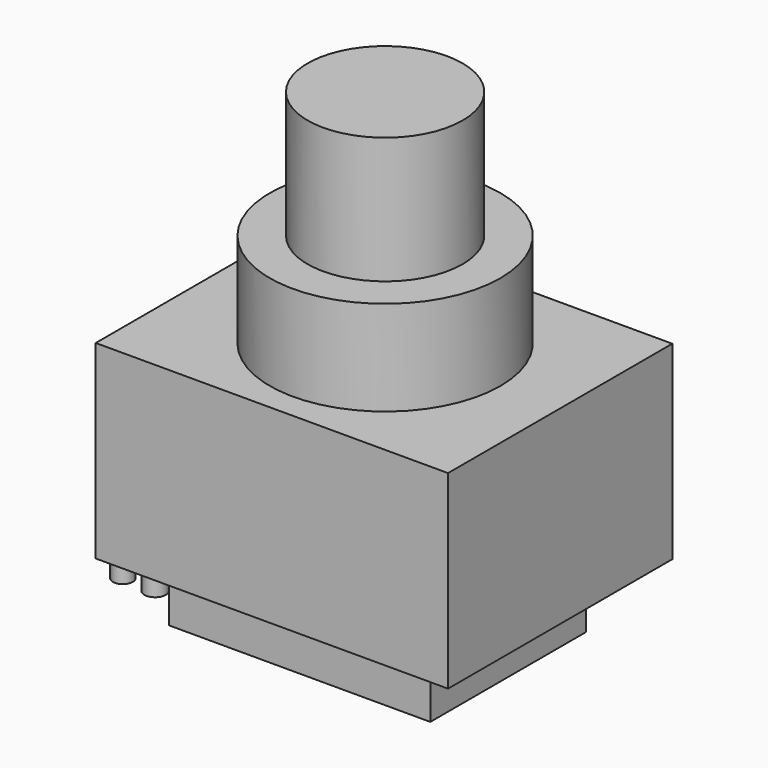
from build123d import *

# Parameters (mm, degrees)
F0_R      = 31.110515
F1_DEPTH  = 50.8
F2_R      = 46.31038
F3_DEPTH  = 38.1
F4_W      = 141.458466
F4_H      = 112.541542
F5_DEPTH  = 76.2
F6_R      = 3.985075
F7_DEPTH  = 7.62
F8_R      = 4.316187
F9_DEPTH  = 7.62
F10_W     = 104.921539
F10_H     = 78.153845
F11_DEPTH = 25.4


with BuildPart() as f1:
    # F0 (on Top) → F1 (new body)
    with BuildSketch(Plane.XY):
        Circle(F0_R)
    extrude(amount=F1_DEPTH)


with BuildPart() as f3:
    # F2 (on face) → F3 (new body)
    with BuildSketch(Plane(origin=(0, 0, 0), x_dir=(1, 0, 0), z_dir=(0, 0, -1))):
        Circle(F2_R)
    extrude(amount=F3_DEPTH)


with BuildPart() as f5:
    # F4 (on face) → F5 (new body)
    with BuildSketch(Plane(origin=(0, 0, -38.1), x_dir=(1, 0, 0), z_dir=(0, 0, -1))):
        with Locations((-0.293076, 0.195384)):
            Rectangle(F4_W, F4_H)
    extrude(amount=F5_DEPTH)


with BuildPart() as f7:
    # F6 (on face) → F7 (new body)
    with BuildSketch(Plane(origin=(0, 0, -114.3), x_dir=(1, 0, 0), z_dir=(0, 0, -1))):
        with Locations((-65.160766, 50.213847)):
            Circle(F6_R)
    extrude(amount=F7_DEPTH)


with BuildPart() as f9:
    # F8 (on face) → F9 (new body)
    with BuildSketch(Plane(origin=(0, 0, -114.3), x_dir=(1, 0, 0), z_dir=(0, 0, -1))):
        with Locations((-51.874619, 50.604537)):
            Circle(F8_R)
    extrude(amount=F9_DEPTH)


with BuildPart() as f11:
    # F10 (on face) → F11 (new body)
    with BuildSketch(Plane(origin=(0, 0, -114.3), x_dir=(1, 0, 0), z_dir=(0, 0, -1))):
        with Locations((-2.735385, 0.39077)):
            Rectangle(F10_W, F10_H)
    extrude(amount=F11_DEPTH)


solid = Compound([f1.part, f3.part, f5.part, f7.part, f9.part, f11.part])
